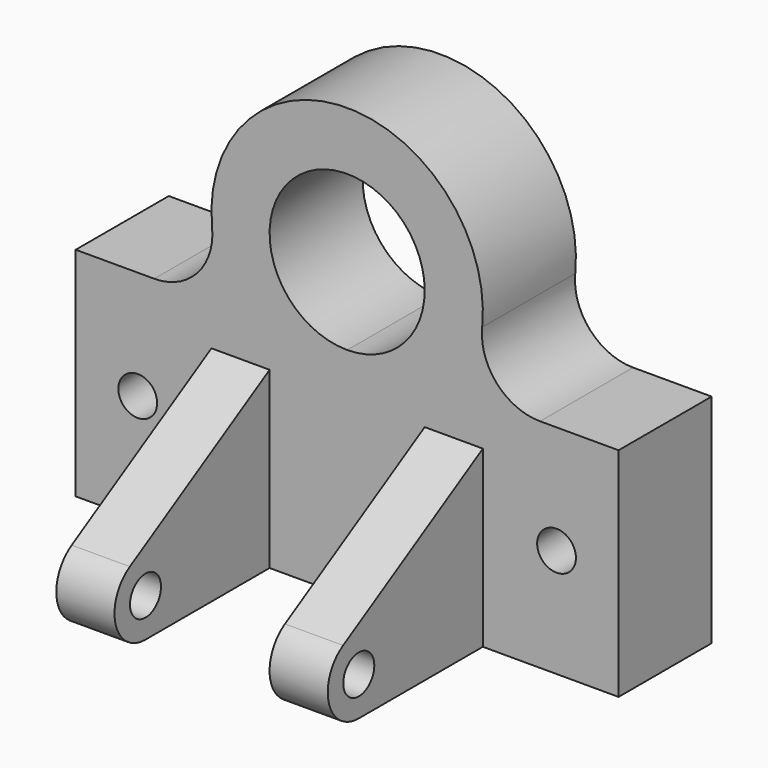
from build123d import *

# Parameters (mm, degrees)
F0_R     = 5
F3_DEPTH = 30
F4_R     = 15
F2_R     = 5
F5_DEPTH = 15


with BuildPart() as f3:
    # F0 (on Front) → F3 (new body)
    with BuildSketch(Plane.XZ):
        with BuildLine():
            ThreePointArc((28.7228132327, 0), (0, 55), (-28.7228132327, 0))
            Line((-28.7228132327, 0), (0, 0))
            Line((0, 0), (28.7228132327, 0))
        make_face()
        with BuildLine():
            ThreePointArc((20, 20), (14.1421356237, 5.8578643763), (0, 0))
            ThreePointArc((0, 0), (-14.1421356237, 34.1421356237), (20, 20))
        make_face(mode=Mode.SUBTRACT)
        Polygon((-28.7228132327, 0), (-70, 0), (-70, -56), (70, -56), (70, 0), (28.7228132327, 0), (0, 0), align=None)
        with Locations((-54, -28)):
            Circle(F0_R, mode=Mode.SUBTRACT)
        with Locations((54, -28)):
            Circle(F0_R, mode=Mode.SUBTRACT)
    extrude(amount=-F3_DEPTH)

    # F4
    f4_edges = [f3.edges().sort_by_distance(p)[0] for p in [
        (-28.722813, 15, 0),
        (28.722813, 15, 0),
    ]]
    fillet(f4_edges, radius=F4_R)

    # F2 (on plane+point) → F5 (join)
    with BuildSketch(Plane.YZ.offset(-35)):
        with BuildLine():
            Line((0, -56), (0, -11))
            Line((0, -11), (-45.0515173064, -37.369694507))
            ThreePointArc((-45.0515173064, -37.369694507), (-49.6515038966, -48.6169586422), (-40, -56))
            Line((-40, -56), (0, -56))
        make_face()
        with Locations((-40, -46)):
            Circle(F2_R, mode=Mode.SUBTRACT)
    extrude(amount=F5_DEPTH)

    # F6: F3 across plane


with BuildPart() as f3_1:
    add(f3.part)
    add(f3.part.mirror(Plane.YZ))


solid = f3_1.part
